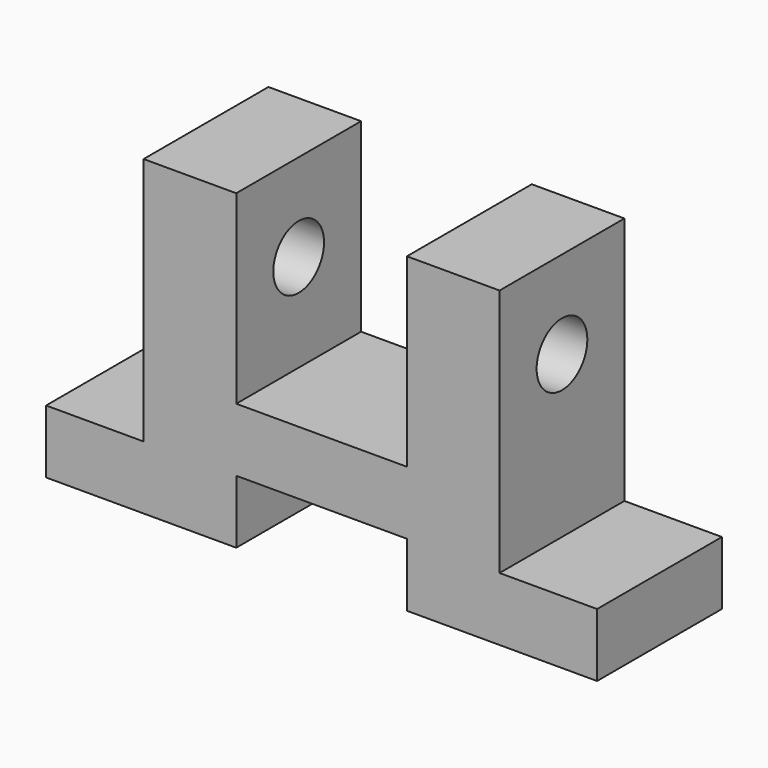
from build123d import *

# Parameters (mm, degrees)
F1_DEPTH = 16
F2_R     = 6.5
F3_DEPTH = 93.001
F4_DEPTH = 93.001


with BuildPart() as f1:
    # F0 (on Front) → F1 (new body, symmetric)
    with BuildSketch(Plane.XZ):
        Polygon((0, 13), (0, 0), (39, 0), (39, 13), (74, 13), (74, 0), (113, 0), (113, 13), (93, 13), (93, 64), (74, 64), (74, 26), (39, 26), (39, 64), (20, 64), (20, 13), align=None)
    extrude(amount=F1_DEPTH, both=True)

    # F2 (on face) → F3 (cut, through all)
    with BuildSketch(Plane.YZ.offset(93)):
        with Locations((0, 46)):
            Circle(F2_R)
    extrude(amount=-F3_DEPTH, mode=Mode.SUBTRACT)

    # F2 (on face) → F4 (cut, through all)
    with BuildSketch(Plane.YZ.offset(93)):
        with Locations((0, 46)):
            Circle(F2_R)
    extrude(amount=-F4_DEPTH, mode=Mode.SUBTRACT)


solid = f1.part
